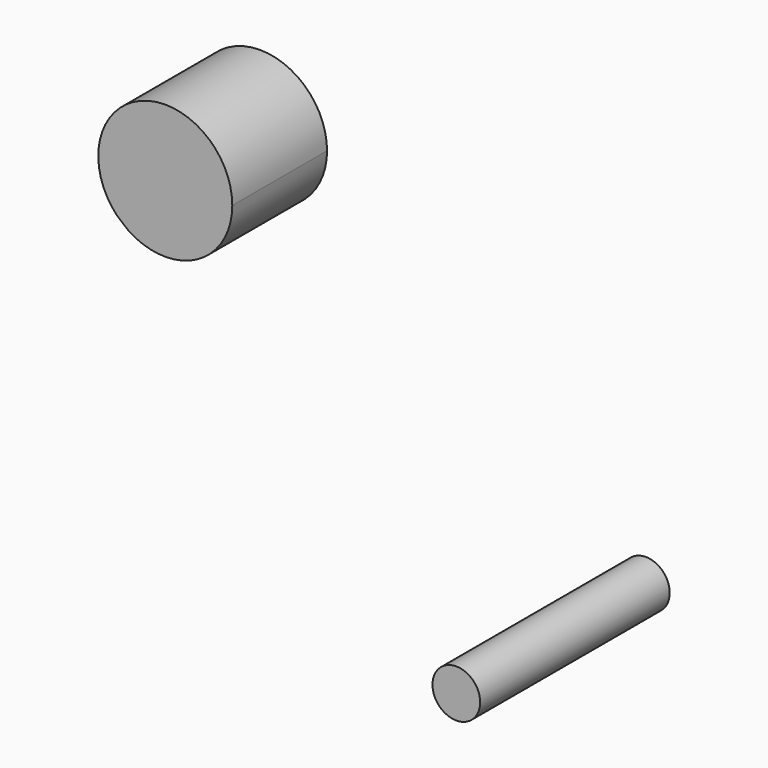
from build123d import *

# Parameters (mm, degrees)
F1_R     = 5.1134214737
F2_DEPTH = 25.4
F1_R_2   = 10.493198269
F3_DEPTH = 25.4


with BuildPart() as f2:
    # F1 (on face) → F2 (new body)
    with BuildSketch(Plane.XZ):
        with Locations((32.4852615595, 0)):
            Circle(F1_R)
    extrude(amount=F2_DEPTH)

    # F3 (add): faces of the model
    f3_faces = [f2.faces().sort_by_distance(p)[0] for p in [
        (32.4852615595, -25.4, 0),
        (32.4852615595, 0, 0),
    ]]
    extrude(f3_faces, amount=F3_DEPTH, dir=(0, -1, 0))


with BuildPart() as f2b:
    # F1 (on face) → F2, piece 2 (new body)
    with BuildSketch(Plane.XZ):
        with Locations((-49.3294745684, 60.1578950882)):
            Circle(F1_R_2)
    extrude(amount=F2_DEPTH)


with BuildPart() as f2c:
    # F0 (on Front) → F2, piece 3 (new body)
    with BuildSketch(Plane.XZ):
        with BuildLine():
            Line((-60.7084391338, 49.72713364), (-58.122426899, 47.5517098229))
            ThreePointArc((-58.122426899, 47.5517098229), (-43.4120738376, 46.9126378705), (-35.8661949138, 59.5563165843))
            ThreePointArc((-35.8661949138, 59.5563165843), (-55.517144105, 72.9143659857), (-60.7084391338, 49.72713364))
        make_face()
    extrude(amount=F2_DEPTH)


solid = Compound([f2.part, f2b.part, f2c.part])
